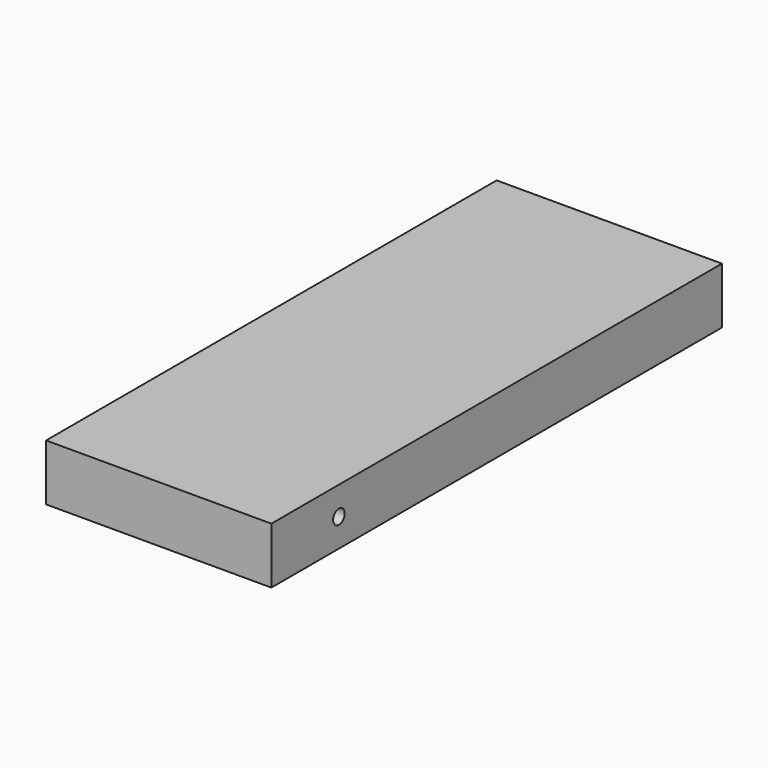
from build123d import *

# Parameters (mm, degrees)
F0_W     = 101.6
F0_H     = 254
F1_DEPTH = 25.4
F3_D     = 6.5278


with BuildPart() as f1:
    # F0 (on Top) → F1 (new body)
    with BuildSketch(Plane.XY):
        Rectangle(F0_W, F0_H)
    extrude(amount=F1_DEPTH)

    # F3 (through all)
    with Locations(Plane.YZ.offset(50.8)):
        with Locations((-88.9, 12.7)):
            Hole(F3_D / 2)


solid = f1.part
